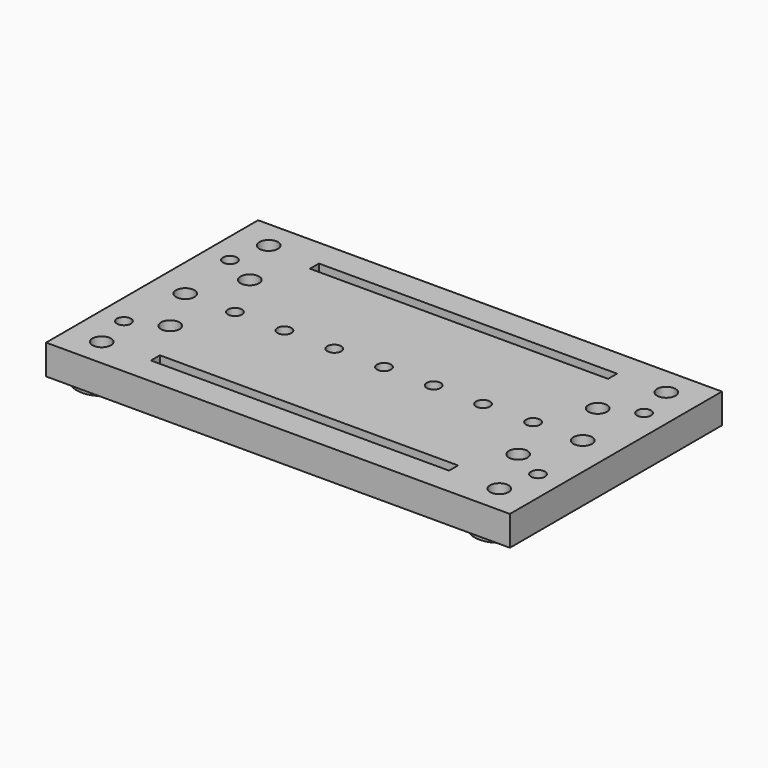
from build123d import *

# Parameters (mm, degrees)
F0_W           = 177.8
F0_H           = 101.6
F1_DEPTH       = 3.81
F3_W           = 114.3
F3_H           = 4.318
F4_DEPTH       = 3.811
F5_R           = 9.525
F6_DEPTH       = 9.525
F8_W           = 177.8
F8_H           = 101.6
F8_W_2         = 170.18
F8_H_2         = 93.98
F9_DEPTH       = 7.62
F10_R          = 3.556
F11_DEPTH      = 9.526
F11_DEPTH_BACK = 3.811
F7_W           = 177.8
F7_H           = 3.175
F13_DEPTH      = 7.62
F2_R           = 3.556
F14_DEPTH      = 3.811
F12_R          = 2.667
F15_DEPTH      = 3.811


with BuildPart() as f1:
    # F0 (on Top) → F1 (new body)
    with BuildSketch(Plane.XY):
        with Locations((88.9, 50.8)):
            Rectangle(F0_W, F0_H)
    extrude(amount=F1_DEPTH)

    # F3 (on Top) → F4 (cut, through all)
    with BuildSketch(Plane.XY):
        with Locations((88.9, 88.9)):
            Rectangle(F3_W, F3_H)
        with Locations((88.9, 12.7)):
            Rectangle(F3_W, F3_H)
    extrude(amount=F4_DEPTH, mode=Mode.SUBTRACT)

    # F5 (on Top) → F6 (join)
    with BuildSketch(Plane.XY):
        with Locations((12.7, 50.8)):
            Circle(F5_R)
        with Locations((12.7, 90.805)):
            Circle(F5_R)
        with Locations((12.7, 10.795)):
            Circle(F5_R)
        with Locations((165.1, 90.805)):
            Circle(F5_R)
        with Locations((165.1, 50.8)):
            Circle(F5_R)
        with Locations((165.1, 10.795)):
            Circle(F5_R)
    extrude(amount=-F6_DEPTH)

    # F8 (on Top) → F9 (join)
    with BuildSketch(Plane.XY):
        with Locations((88.9, 50.8)):
            Rectangle(F8_W, F8_H)
        with Locations((88.9, 50.8)):
            Rectangle(F8_W_2, F8_H_2, mode=Mode.SUBTRACT)
    extrude(amount=-F9_DEPTH)

    # F10 (on Top) → F11 (cut, two sides)
    with BuildSketch(Plane.XY) as f11_sk:
        with Locations((165.1, 50.8)):
            Circle(F10_R)
        with Locations((165.1, 90.805)):
            Circle(F10_R)
        with Locations((12.7, 10.795)):
            Circle(F10_R)
        with Locations((12.7, 50.8)):
            Circle(F10_R)
        with Locations((12.7, 90.805)):
            Circle(F10_R)
        with Locations((165.1, 10.795)):
            Circle(F10_R)
    extrude(amount=-F11_DEPTH, mode=Mode.SUBTRACT)
    extrude(f11_sk.sketch, amount=F11_DEPTH_BACK, mode=Mode.SUBTRACT)

    # F7 (on Top) → F13 (join)
    with BuildSketch(Plane.XY):
        with Locations((88.9, 42.8625)):
            Rectangle(F7_W, F7_H)
        with Locations((88.9, 58.7375)):
            Rectangle(F7_W, F7_H)
    extrude(amount=-F13_DEPTH)

    # F2 (on Top) → F14 (cut, through all)
    with BuildSketch(Plane.XY):
        with Locations((22.225, 69.85)):
            Circle(F2_R)
        with Locations((22.225, 31.75)):
            Circle(F2_R)
        with Locations((155.575, 69.85)):
            Circle(F2_R)
        with Locations((155.575, 31.75)):
            Circle(F2_R)
    extrude(amount=F14_DEPTH, mode=Mode.SUBTRACT)

    # F12 (on Top) → F15 (cut, through all)
    with BuildSketch(Plane.XY):
        with Locations((31.75, 50.8)):
            Circle(F12_R)
        with Locations((88.9, 50.8)):
            Circle(F12_R)
        with Locations((146.05, 50.8)):
            Circle(F12_R)
        with Locations((9.525, 25.4)):
            Circle(F12_R)
        with Locations((9.525, 76.2)):
            Circle(F12_R)
        with Locations((168.275, 25.4)):
            Circle(F12_R)
        with Locations((168.275, 76.2)):
            Circle(F12_R)
        with Locations((69.85, 50.8)):
            Circle(F12_R)
        with Locations((107.95, 50.8)):
            Circle(F12_R)
        with Locations((50.8, 50.6974235177)):
            Circle(F12_R)
        with Locations((127, 50.6266094744)):
            Circle(F12_R)
    extrude(amount=F15_DEPTH, mode=Mode.SUBTRACT)


solid = f1.part
